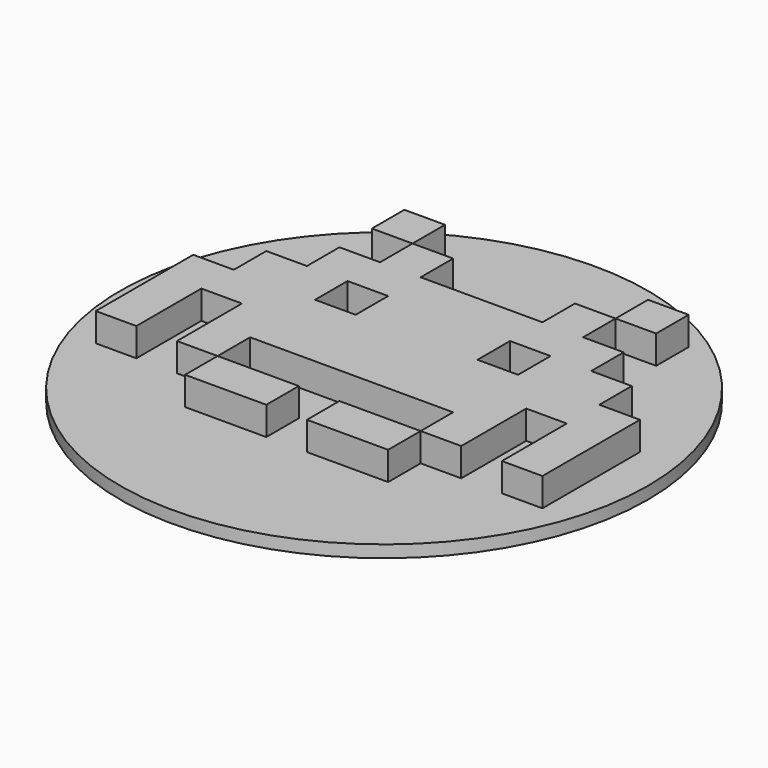
from build123d import *

# Parameters (mm, degrees)
CYLINDER_R     = 6.5
CYLINDER_DEPTH = 0.3
BOX001_W       = 1
BOX001_H       = 2
BOX001_DEPTH   = 1
BOX002_W       = 3
BOX002_H       = 4
BOX002_DEPTH   = 1
BOX003_W       = 1
BOX003_H       = 2
BOX003_DEPTH   = 1
BOX004_W       = 1
BOX004_H       = 1
BOX004_DEPTH   = 1
BOX005_W       = 1
BOX005_H       = 5
BOX005_DEPTH   = 1
BOX006_W       = 1
BOX006_H       = 5
BOX006_DEPTH   = 1
BOX007_W       = 1
BOX007_H       = 2
BOX007_DEPTH   = 1
BOX008_W       = 1
BOX008_H       = 2
BOX008_DEPTH   = 1
BOX009_W       = 1
BOX009_H       = 2
BOX009_DEPTH   = 1
BOX010_W       = 1
BOX010_H       = 2
BOX010_DEPTH   = 1
BOX011_W       = 1
BOX011_H       = 3
BOX011_DEPTH   = 1
BOX012_W       = 1
BOX012_H       = 3
BOX012_DEPTH   = 1
BOX013_W       = 1
BOX013_H       = 2
BOX013_DEPTH   = 1
BOX014_W       = 1
BOX014_H       = 2
BOX014_DEPTH   = 1
BOX_W          = 1
BOX_H          = 1
BOX_DEPTH      = 1


with BuildPart() as cilindro:
    # Cylinder → Cylinder (new body)
    with BuildSketch(Plane(origin=(3.5, -4, 0), x_dir=(1, 0, 0), z_dir=(0, 0, 1))):
        Circle(CYLINDER_R)
    extrude(amount=CYLINDER_DEPTH)


with BuildPart() as cubo001:
    # Box001 → Box001 (new body)
    with BuildSketch(Plane(origin=(1, -2, 0), x_dir=(1, 0, 0), z_dir=(0, 0, 1))):
        with Locations((0.5, 1)):
            Rectangle(BOX001_W, BOX001_H)
    extrude(amount=BOX001_DEPTH)


with BuildPart() as cubo002:
    # Box002 → Box002 (new body)
    with BuildSketch(Plane(origin=(2, -5, 0), x_dir=(1, 0, 0), z_dir=(0, 0, 1))):
        with Locations((1.5, 2)):
            Rectangle(BOX002_W, BOX002_H)
    extrude(amount=BOX002_DEPTH)


with BuildPart() as cubo003:
    # Box003 → Box003 (new body)
    with BuildSketch(Plane(origin=(5, -2, 0), x_dir=(1, 0, 0), z_dir=(0, 0, 1))):
        with Locations((0.5, 1)):
            Rectangle(BOX003_W, BOX003_H)
    extrude(amount=BOX003_DEPTH)


with BuildPart() as cubo004:
    # Box004 → Box004 (new body)
    with BuildSketch(Plane(origin=(6, 0, 0), x_dir=(1, 0, 0), z_dir=(0, 0, 1))):
        with Locations((0.5, 0.5)):
            Rectangle(BOX004_W, BOX004_H)
    extrude(amount=BOX004_DEPTH)


with BuildPart() as cubo005:
    # Box005 → Box005 (new body)
    with BuildSketch(Plane(origin=(0, -6, 0), x_dir=(1, 0, 0), z_dir=(0, 0, 1))):
        with Locations((0.5, 2.5)):
            Rectangle(BOX005_W, BOX005_H)
    extrude(amount=BOX005_DEPTH)


with BuildPart() as cubo006:
    # Box006 → Box006 (new body)
    with BuildSketch(Plane(origin=(6, -6, 0), x_dir=(1, 0, 0), z_dir=(0, 0, 1))):
        with Locations((0.5, 2.5)):
            Rectangle(BOX006_W, BOX006_H)
    extrude(amount=BOX006_DEPTH)


with BuildPart() as cubo007:
    # Box007 → Box007 (new body)
    with BuildSketch(Plane(origin=(1, -5, 0), x_dir=(1, 0, 0), z_dir=(0, 0, 1))):
        with Locations((0.5, 1)):
            Rectangle(BOX007_W, BOX007_H)
    extrude(amount=BOX007_DEPTH)


with BuildPart() as cubo008:
    # Box008 → Box008 (new body)
    with BuildSketch(Plane(origin=(5, -5, 0), x_dir=(1, 0, 0), z_dir=(0, 0, 1))):
        with Locations((0.5, 1)):
            Rectangle(BOX008_W, BOX008_H)
    extrude(amount=BOX008_DEPTH)


with BuildPart() as cubo009:
    # Box009 → Box009 (new body)
    with BuildSketch(Plane(origin=(-1, -4, 0), x_dir=(1, 0, 0), z_dir=(0, 0, 1))):
        with Locations((0.5, 1)):
            Rectangle(BOX009_W, BOX009_H)
    extrude(amount=BOX009_DEPTH)


with BuildPart() as cubo010:
    # Box010 → Box010 (new body)
    with BuildSketch(Plane(origin=(7, -4, 0), x_dir=(1, 0, 0), z_dir=(0, 0, 1))):
        with Locations((0.5, 1)):
            Rectangle(BOX010_W, BOX010_H)
    extrude(amount=BOX010_DEPTH)


with BuildPart() as cubo011:
    # Box011 → Box011 (new body)
    with BuildSketch(Plane(origin=(-2, -6, 0), x_dir=(1, 0, 0), z_dir=(0, 0, 1))):
        with Locations((0.5, 1.5)):
            Rectangle(BOX011_W, BOX011_H)
    extrude(amount=BOX011_DEPTH)


with BuildPart() as cubo012:
    # Box012 → Box012 (new body)
    with BuildSketch(Plane(origin=(8, -6, 0), x_dir=(1, 0, 0), z_dir=(0, 0, 1))):
        with Locations((0.5, 1.5)):
            Rectangle(BOX012_W, BOX012_H)
    extrude(amount=BOX012_DEPTH)


with BuildPart() as cubo013:
    # Box013 → Box013 (new body)
    with BuildSketch(Plane(origin=(3, -7, 0), x_dir=(0, 1, 0), z_dir=(0, 0, 1))):
        with Locations((0.5, 1)):
            Rectangle(BOX013_W, BOX013_H)
    extrude(amount=BOX013_DEPTH)


with BuildPart() as cubo014:
    # Box014 → Box014 (new body)
    with BuildSketch(Plane(origin=(6, -7, 0), x_dir=(0, 1, 0), z_dir=(0, 0, 1))):
        with Locations((0.5, 1)):
            Rectangle(BOX014_W, BOX014_H)
    extrude(amount=BOX014_DEPTH)


with BuildPart() as fusion001:
    # Box → Box (new body)
    with BuildSketch(Plane.XY):
        with Locations((0.5, 0.5)):
            Rectangle(BOX_W, BOX_H)
    extrude(amount=BOX_DEPTH)

    # Fusion: union Cubo001, Cubo002, Cubo003, Cubo004, Cubo005, Cubo006, Cubo007, Cubo008, Cubo009, Cubo010, Cubo011, Cubo012, Cubo013, Cubo014
    add(cubo001.part)
    add(cubo002.part)
    add(cubo003.part)
    add(cubo004.part)
    add(cubo005.part)
    add(cubo006.part)
    add(cubo007.part)
    add(cubo008.part)
    add(cubo009.part)
    add(cubo010.part)
    add(cubo011.part)
    add(cubo012.part)
    add(cubo013.part)
    add(cubo014.part)

    # Fusion001: union Cilindro
    add(cilindro.part)


solid = fusion001.part
